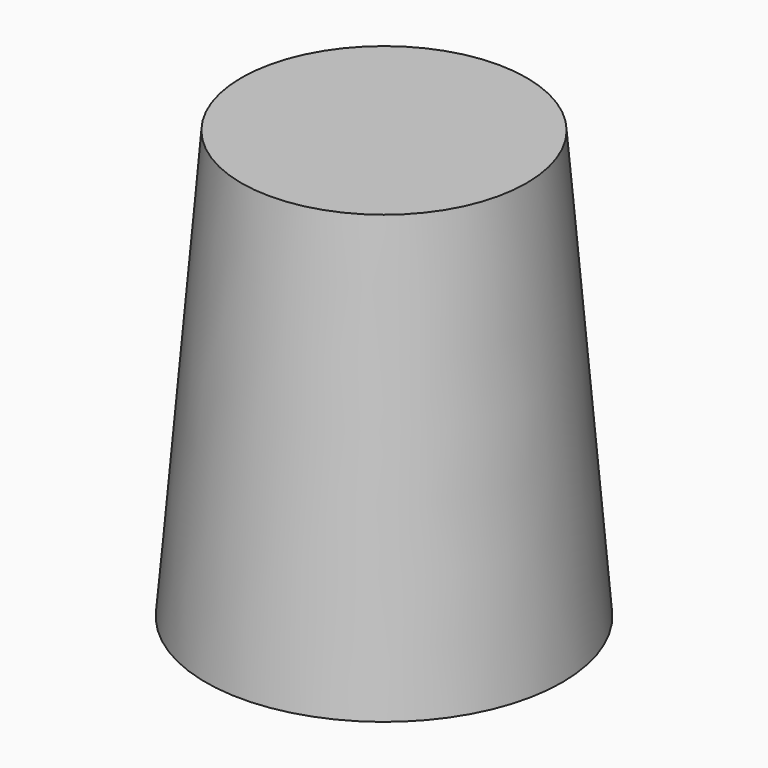
from build123d import *

# Parameters (mm, degrees)
CYLINDER004_R     = 1.55
CYLINDER004_DEPTH = 10
CYLINDER003_R     = 3.5
CYLINDER003_DEPTH = 3.5


with BuildPart() as bolt_hole_cylinder:
    # Cylinder004 → Cylinder004 (new body)
    with BuildSketch(Plane.XY):
        Circle(CYLINDER004_R)
    extrude(amount=CYLINDER004_DEPTH)


with BuildPart() as hole_extraction:
    # Cylinder003 → Cylinder003 (new body)
    with BuildSketch(Plane.XY):
        Circle(CYLINDER003_R)
    extrude(amount=CYLINDER003_DEPTH)

    # Fusion003: union bolt hole cylinder
    add(bolt_hole_cylinder.part)


with BuildPart() as bolt_cover:
    # Cone → Cone (revolve)
    with BuildSketch(Plane.XZ):
        Polygon((0, 0), (5, 0), (4, 12), (0, 12), align=None)
    revolve(axis=Axis((0, 0, 0), (0, 0, 1)))

    # Cut001: cut hole extraction
    add(hole_extraction.part, mode=Mode.SUBTRACT)


solid = bolt_cover.part
